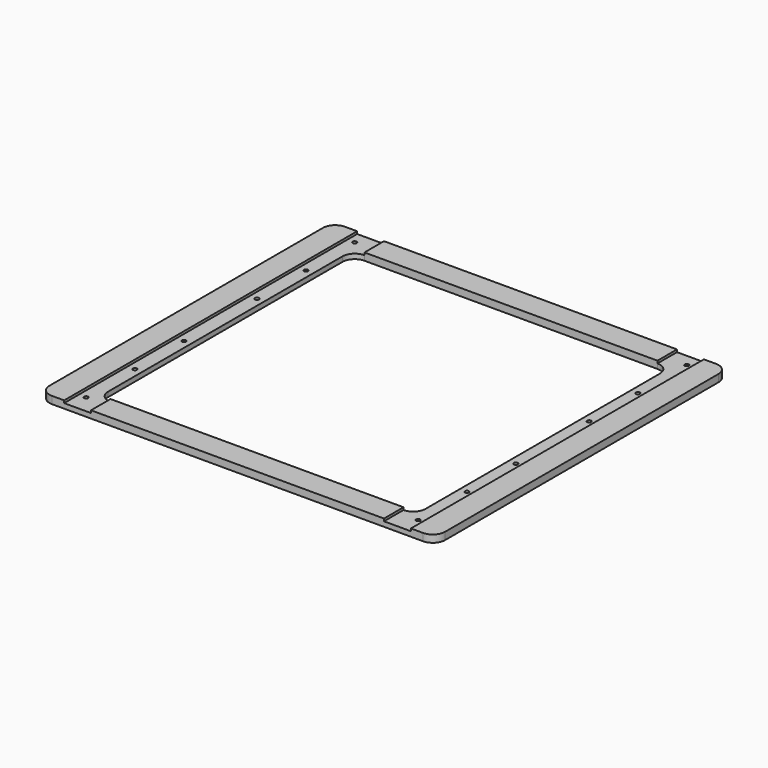
from build123d import *

# Parameters (mm, degrees)
F0_W     = 324
F0_H     = 300
F1_DEPTH = 6
F2_R     = 10
F3_W     = 22
F3_H     = 2
F4_DEPTH = 300
F6_D     = 3.3
F6_DEPTH = 14.1
F6_TIP   = 0.9914200214
F7_R     = 10


with BuildPart() as f1:
    # F0 (on Top) → F1 (new body)
    with BuildSketch(Plane.XY):
        Rectangle(F0_W, F0_H)
        Polygon((-130, 0), (-130, 130), (130, 130), (130, 0), (130, -130), (-130, -130), align=None, mode=Mode.SUBTRACT)
    extrude(amount=F1_DEPTH)

    # F2
    f2_edges = [f1.edges().sort_by_distance(p)[0] for p in [
        (130, 130, 3),
        (-130, 130, 3),
        (-130, -130, 3),
        (130, -130, 3),
    ]]
    fillet(f2_edges, radius=F2_R)

    # F3 (on face) → F4 (cut)
    with BuildSketch(Plane.XZ.offset(150)):
        with Locations((-131, 5)):
            Rectangle(F3_W, F3_H)
        with Locations((131, 5)):
            Rectangle(F3_W, F3_H)
    extrude(amount=-F4_DEPTH, mode=Mode.SUBTRACT)

    # F6
    with Locations(Plane.XY.offset(4)):
        with Locations((-136, 140), (-136, 90), (-136, -135), (136, -135), (136, 90), (136, 140), (136, -85), (-136, -85), (-136, 40), (-136, -35), (136, -35), (136, 40)):
            Hole(F6_D / 2, depth=F6_DEPTH)
            with Locations((0, 0, -(F6_DEPTH + F6_TIP / 2))):  # 118° drill point
                Cone(0, F6_D / 2, F6_TIP, mode=Mode.SUBTRACT)

    # F7
    f7_edges = [f1.edges().sort_by_distance(p)[0] for p in [
        (162, -150, 3),
        (162, 150, 3),
        (-162, -150, 3),
        (-162, 150, 3),
    ]]
    fillet(f7_edges, radius=F7_R)


solid = f1.part
